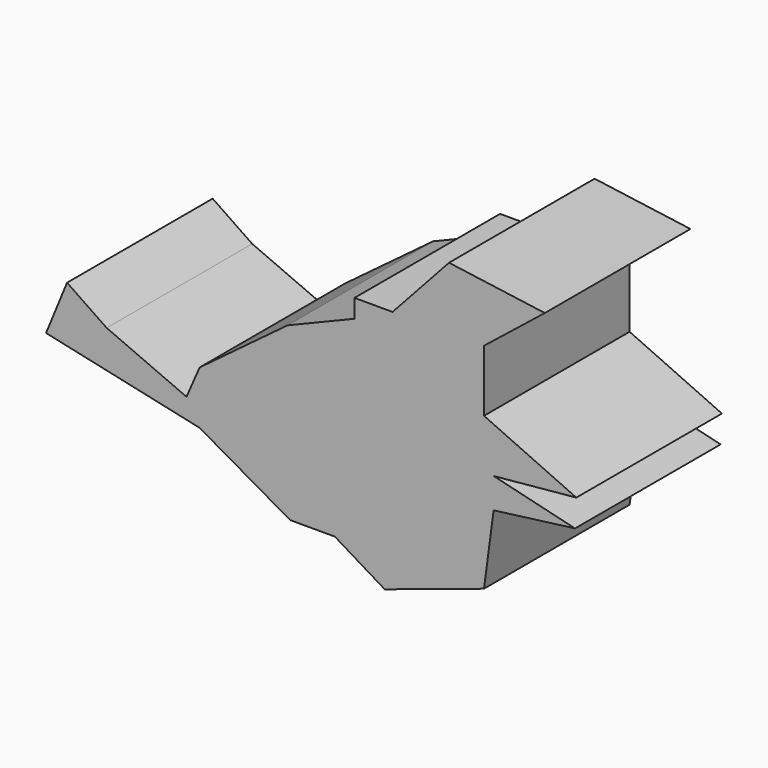
from build123d import *

# Parameters (mm, degrees)
F1_DEPTH = 50.8


with BuildPart() as f1:
    # F0 (on Front) → F1 (new body)
    with BuildSketch(Plane.XZ):
        Polygon((2.690544, 14.856245), (25.771078, 17.054392), (0, 28.777838), (0, 45.996651), (16.978493, 59.551883), (-9.765618, 63.215457), (-25.518999, 45.996651), (-36.143374, 45.996651), (-36.143374, 40.867642), (-54.827616, 33.174131), (-79.373583, 14.856245), (-83.03716, 6.430019), (-105.328479, 16.121897), (-116.375707, 23.64883), (-122.237429, 9.360881), (-79.373583, 0), (-54.094899, -14.45237), (-41.638739, -14.45237), (-27.717145, -22.878597), (0, -13.719655), (2.690544, 6.430019), (25.404721, 9.360881), align=None)
    extrude(amount=F1_DEPTH)


solid = f1.part
